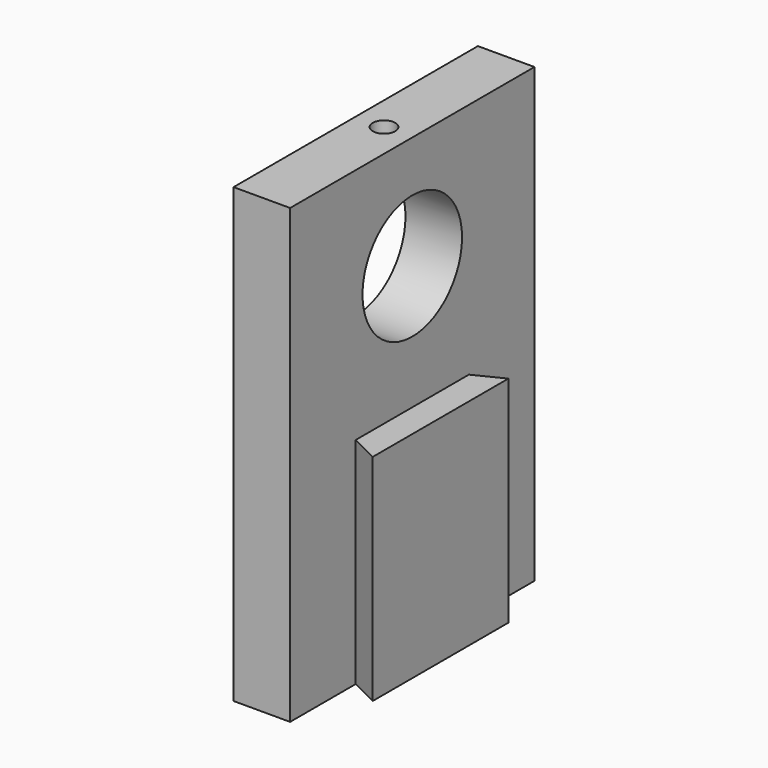
from build123d import *

# Parameters (mm, degrees)
PAD012_DEPTH    = 38
SKETCH023_W     = 10
SKETCH023_H     = 54
PAD013_DEPTH    = 80
SKETCH024_R     = 11
POCKET010_DEPTH = 25.001
SKETCH022_R     = 2
POCKET011_DEPTH = 10


with BuildPart() as part:
    # Sketch001 → Pad012 (new body)
    with BuildSketch(Plane.XY):
        Polygon((-15, 0), (-15, 14.5), (-10, 12), (-10, 42), (-15, 39.5), (-15, 54), (-25, 54), (-25, 0), align=None)
    extrude(amount=PAD012_DEPTH)

    # Sketch023 → Pad013 (new body)
    with BuildSketch(Plane.XY):
        with Locations((-20, 27)):
            Rectangle(SKETCH023_W, SKETCH023_H)
    extrude(amount=PAD013_DEPTH)

    # Sketch024 → Pocket010 (cut, through all)
    with BuildSketch(Plane.YZ):
        with Locations((27, 60)):
            Circle(SKETCH024_R)
    extrude(amount=-POCKET010_DEPTH, mode=Mode.SUBTRACT)

    # Sketch022 → Pocket011 (cut)
    with BuildSketch(Plane.XY.offset(80)):
        with Locations((-20, 27)):
            Circle(SKETCH022_R)
    extrude(amount=-POCKET011_DEPTH, mode=Mode.SUBTRACT)


solid = part.part
